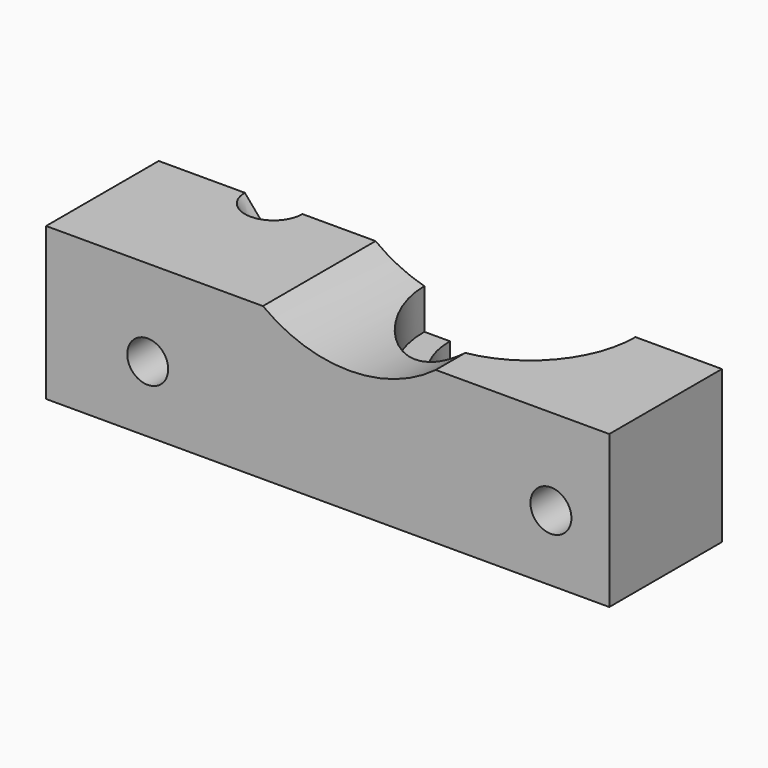
from build123d import *

# Parameters (mm, degrees)
F0_W     = 44
F0_H     = 11
F1_DEPTH = 11.9
F2_R     = 6.25
F3_DEPTH = 25
F4_R     = 8.25
F5_DEPTH = 5
F6_R     = 8.75
F7_DEPTH = 2.8
F8_R     = 1.6
F8_R_2   = 11.25
F9_DEPTH = 25
F11_R    = 2.25


with BuildPart() as f1:
    # F0 (on Top) → F1 (new body)
    with BuildSketch(Plane.XY):
        with Locations((22, 5.5)):
            Rectangle(F0_W, F0_H)
    extrude(amount=F1_DEPTH)

    # F2 (on face) → F3 (cut)
    with BuildSketch(Plane.XY.offset(11.9)):
        with Locations((29, 11)):
            Circle(F2_R)
    extrude(amount=-F3_DEPTH, mode=Mode.SUBTRACT)

    # F4 (on face) → F5 (cut)
    with BuildSketch(Plane.XY.offset(11.9)):
        with Locations((29, 11)):
            Circle(F4_R)
    extrude(amount=-F5_DEPTH, mode=Mode.SUBTRACT)

    # F6 (on face) → F7 (cut)
    with BuildSketch(Plane(origin=(0, 0, 0), x_dir=(1, 0, 0), z_dir=(0, 0, -1))):
        with Locations((29, -11)):
            Circle(F6_R)
    extrude(amount=-F7_DEPTH, mode=Mode.SUBTRACT)

    # F8 (on face) → F9 (cut)
    with BuildSketch(Plane.XZ):
        with Locations((39.440233, 5.15)):
            Circle(F8_R)
        with Locations((7.940233, 5.15)):
            Circle(F8_R)
        with Locations((23.690233, 20.9)):
            Circle(F8_R_2)
    extrude(amount=-F9_DEPTH, mode=Mode.SUBTRACT)

    # F12: sweep along a path in F10
    with BuildLine(Plane(origin=(0, 11, 0), x_dir=(-1, 0, 0), z_dir=(0, 1, 0))) as f12_path:
        Line((-22.5, -6.5), (-2.5, 16.9))
    # F11 (on face) → F12 (sweep, cut)
    with BuildSketch(Plane(origin=(0, 0, 0), x_dir=(1, 0, 0), z_dir=(0, 0, -1))):
        with Locations((19.15, -11)):
            Circle(F11_R)
    sweep(path=f12_path.line, mode=Mode.SUBTRACT)


solid = f1.part
